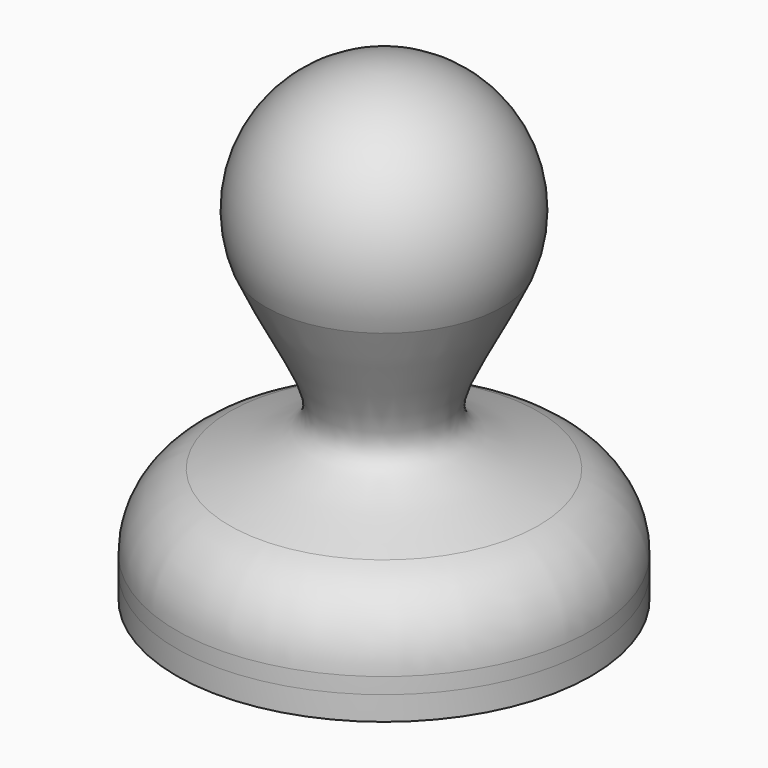
from build123d import *

# Parameters (mm, degrees)
F2_R     = 5.25
F3_DEPTH = 3.5
F4_R     = 13
F5_DEPTH = 1.5


with BuildPart() as f1:
    # F0 (on Front) → F1 (revolve)
    with BuildSketch(Plane.XZ):
        with BuildLine():
            Line((-13, 0), (0, 0))
            Line((0, 0), (0, 28))
            ThreePointArc((0, 28), (-6.6208594363, 24.4904588101), (-7.4326741465, 17.0410550813))
            add(Edge.make_bspline(
                [(-7.4326741465, 17.0410550813), (-5.1480043112, 12.0772723951), (-1.8048124165, 8.1672623986), (-7.1835572352, 6.6008977536), (-9.6816832971, 5.7087090893)],
                knots=[0, 0, 0, 0, 0.495820355, 0.8469277652, 0.8469277652, 0.8469277652, 0.8469277652], degree=3))
            ThreePointArc((-9.6816832971, 5.7087090893), (-12.0870782037, 3.8802416144), (-13, 1))
            Line((-13, 1), (-13, 0))
        make_face()
    revolve(axis=Axis((0, 0, 14), (0, 0, 1)))

    # F2 (on face) → F3 (cut)
    with BuildSketch(Plane(origin=(0, 0, 0), x_dir=(1, 0, 0), z_dir=(0, 0, -1))):
        with Locations((-5.6291651246, -3.25)):
            Circle(F2_R)
        with Locations((5.6291651246, -3.25)):
            Circle(F2_R)
        with Locations((0, 6.5)):
            Circle(F2_R)
    extrude(amount=-F3_DEPTH, mode=Mode.SUBTRACT)

    # F4 (on face) → F5 (join)
    with BuildSketch(Plane(origin=(0, 0, 0), x_dir=(1, 0, 0), z_dir=(0, 0, -1))):
        Circle(F4_R)
    extrude(amount=F5_DEPTH)


solid = f1.part
